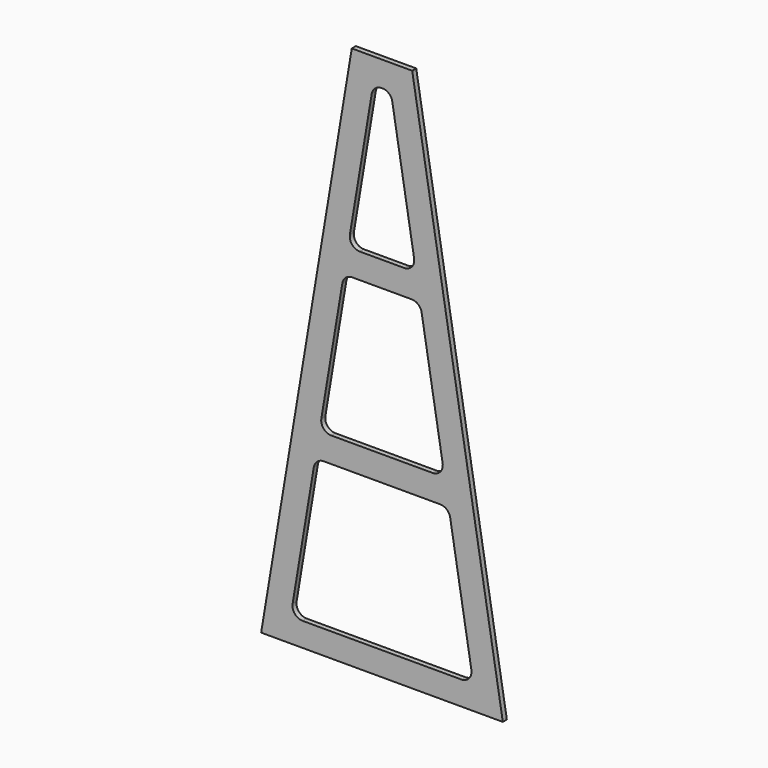
from build123d import *

# Parameters (mm, degrees)
F1_DEPTH = 12.7
F2_R     = 25.4


with BuildPart() as f1:
    # F0 (on Front) → F1 (new body)
    with BuildSketch(Plane.XZ):
        Polygon((76.2, 220.150558), (0, 220.150558), (-76.2, 220.150558), (-304.8, -1151.449442), (0, -1151.449442), (304.8, -1151.449442), align=None)
        Polygon((230.390112, -1091.245532), (0, -1091.245532), (-230.390112, -1091.245532), (-168.45743, -719.649442), (0, -719.649442), (168.45743, -719.649442), align=None, mode=Mode.SUBTRACT)
        Polygon((157.874097, -656.149442), (0, -656.149442), (-157.874097, -656.149442), (-96.490763, -287.849442), (0, -287.849442), (96.490763, -287.849442), align=None, mode=Mode.SUBTRACT)
        Polygon((85.90743, -224.349442), (0, -224.349442), (-85.90743, -224.349442), (-22.40743, 156.650558), (0, 156.650558), (22.40743, 156.650558), align=None, mode=Mode.SUBTRACT)
    extrude(amount=F1_DEPTH)

    # F2
    f2_edges = [f1.edges().sort_by_distance(p)[0] for p in [
        (-85.90743, -6.35, -224.349442),
        (85.90743, -6.35, -224.349442),
        (22.40743, -6.35, 156.650558),
        (-22.40743, -6.35, 156.650558),
        (-96.490763, -6.35, -287.849442),
        (96.490763, -6.35, -287.849442),
        (157.874097, -6.35, -656.149442),
        (-157.874097, -6.35, -656.149442),
        (-230.390112, -6.35, -1091.245532),
        (168.45743, -6.35, -719.649442),
        (230.390112, -6.35, -1091.245532),
        (-168.45743, -6.35, -719.649442),
    ]]
    fillet(f2_edges, radius=F2_R)


solid = f1.part
